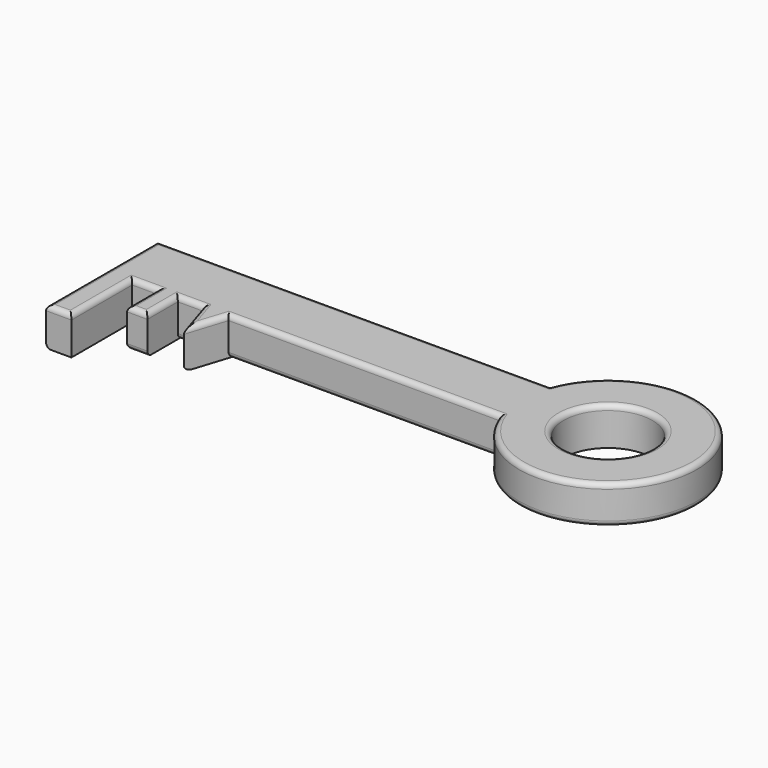
from build123d import *

# Parameters (mm, degrees)
F0_R     = 17.5
F0_W     = 8
F0_H     = 15
F0_W_2   = 10
F0_H_2   = 30
F1_DEPTH = 15
F2_R     = 2


with BuildPart() as f1:
    # F0 (on Top) → F1 (new body)
    with BuildSketch(Plane.XY):
        with BuildLine():
            Line((-121.7906681545, 11.4219555392), (-14.8400091627, 11.4219555392))
            ThreePointArc((-14.8400091627, 11.4219555392), (53.1020299987, 23.9219555392), (-14.8400091627, 36.4219555392))
            Line((-14.8400091627, 36.4219555392), (-169.8400091627, 36.4219555392))
            Line((-169.8400091627, 36.4219555392), (-169.8400091627, 11.4219555392))
            Line((-169.8400091627, 11.4219555392), (-159.8400091627, 11.4219555392))
            Line((-159.8400091627, 11.4219555392), (-149.8400091627, 11.4219555392))
            Line((-149.8400091627, 11.4219555392), (-141.8400091627, 11.4219555392))
            Line((-141.8400091627, 11.4219555392), (-131.8400091627, 11.4219555392))
            Line((-131.8400091627, 11.4219555392), (-121.7906681545, 11.4219555392))
        make_face()
        with Locations((17.9811332438, 23.9219555392)):
            Circle(F0_R, mode=Mode.SUBTRACT)
        Polygon((-126.8153386586, -4.3499972671), (-121.7906681545, 11.4219555392), (-131.8400091627, 11.4219555392), align=None)
        with Locations((-145.8400091627, 3.9219555392)):
            Rectangle(F0_W, F0_H)
        with Locations((-164.8400091627, -3.5780444608)):
            Rectangle(F0_W_2, F0_H_2)
    extrude(amount=-F1_DEPTH)

    # F2
    f2_edges = [f1.edges().sort_by_distance(p)[0] for p in [
        (-92.340009, 36.421956, 0),
        (-169.840009, 8.921956, 0),
        (-164.840009, -18.578044, 0),
        (-159.840009, -3.578044, 0),
        (-154.840009, 11.421956, 0),
        (-149.840009, 3.921956, 0),
        (-145.840009, -3.578044, 0),
        (-141.840009, 3.921956, 0),
        (-136.840009, 11.421956, 0),
        (-129.327674, 3.535979, 0),
        (-124.303003, 3.535979, 0),
        (-68.315339, 11.421956, 0),
        (53.10203, 23.921956, 0),
        (0.481133, 23.921956, 0),
        (-92.340009, 36.421956, -15),
        (-68.315339, 11.421956, -15),
        (53.10203, 23.921956, -15),
        (-129.327674, 3.535979, -15),
        (-136.840009, 11.421956, -15),
        (-154.840009, 11.421956, -15),
        (-149.840009, 3.921956, -15),
        (-145.840009, -3.578044, -15),
        (-169.840009, 8.921956, -15),
    ]]
    fillet(f2_edges, radius=F2_R)


solid = f1.part
